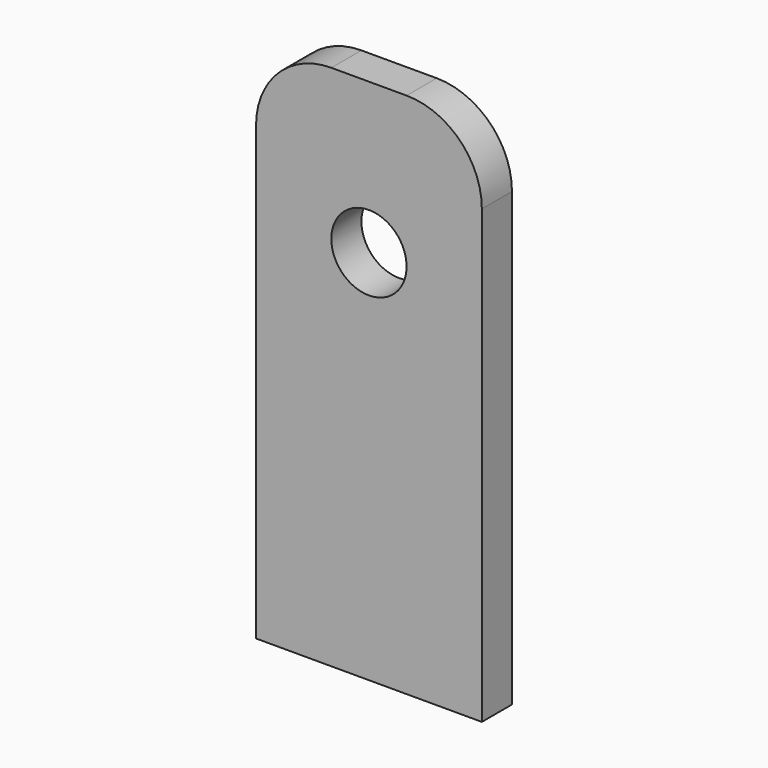
from build123d import *

# Parameters (mm, degrees)
F0_W     = 150
F0_H     = 350
F1_DEPTH = 25
F2_R     = 50
F4_D     = 50


with BuildPart() as f1:
    # F0 (on Front) → F1 (new body)
    with BuildSketch(Plane.XZ):
        with Locations((94.000003, 175)):
            Rectangle(F0_W, F0_H)
    extrude(amount=F1_DEPTH)

    # F2
    f2_edges = [f1.edges().sort_by_distance(p)[0] for p in [
        (19.000003, -12.5, 350),
        (169.000003, -12.5, 350),
    ]]
    fillet(f2_edges, radius=F2_R)

    # F4 (through all)
    with Locations(Plane.XZ.offset(25)):
        with Locations((94.000003, 250)):
            Hole(F4_D / 2)


solid = f1.part
